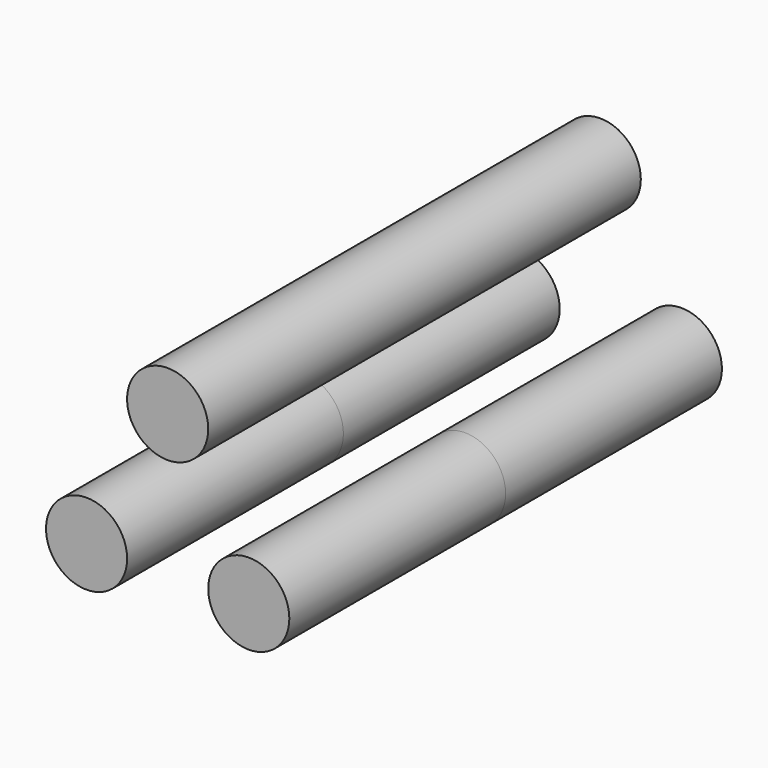
from build123d import *

# Parameters (mm, degrees)
F0_R     = 9.525
F1_DEPTH = 63.5


with BuildPart() as f1:
    # F0 (on Front) → F1 (new body, symmetric)
    with BuildSketch(Plane.XZ):
        with Locations((-24.106397, 0)):
            Circle(F0_R)
        with Locations((13.993603, 0)):
            Circle(F0_R)
        with Locations((-5.056397, 32.995568)):
            Circle(F0_R)
    extrude(amount=F1_DEPTH, both=True)


solid = f1.part
